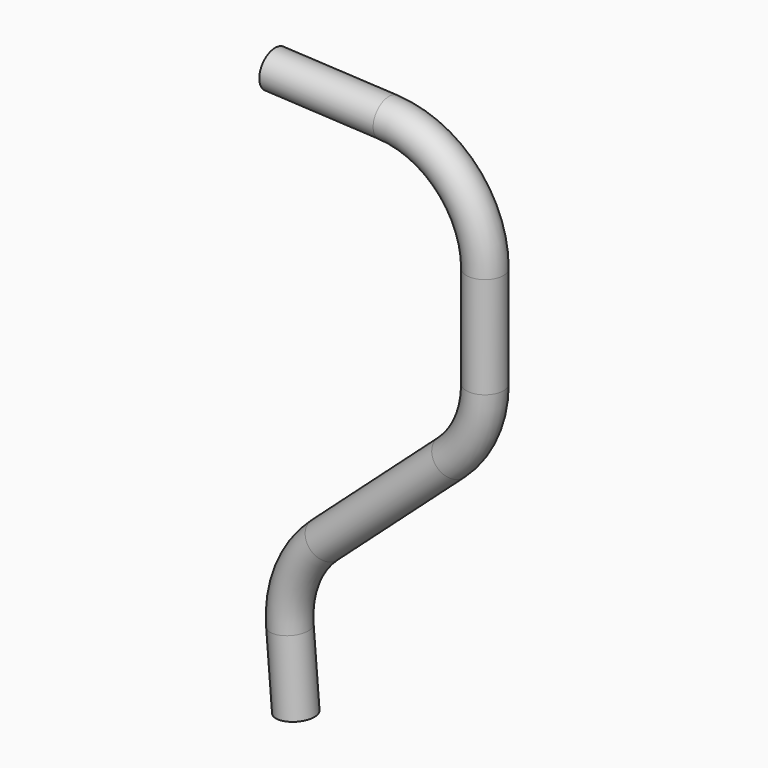
from build123d import *

# Parameters (mm, degrees)
F2_R = 5.3803837803


with BuildPart() as f3:
    # F3: sweep along a path in F0
    with BuildLine(Plane.XZ) as f3_path:
        Line((-26.7027262608, 95.4753458089), (6.2291059555, 93.8169066576))
        ThreePointArc((6.2291059555, 93.8169066576), (26.4603543194, 84.527727557), (34.7202252982, 63.8548760328))
        Line((34.7202252982, 63.8548760328), (34.7202252982, 34.5135206906))
        ThreePointArc((34.7202252982, 34.5135206906), (32.1206660255, 22.2981267981), (24.7725021017, 12.1997089365))
        Line((24.7725021017, 12.1997089365), (-11.8514567561, -20.7123622394))
        ThreePointArc((-11.8514567561, -20.7123622394), (-19.6627343532, -31.9076158063), (-21.7047156406, -45.4050256521))
        Line((-21.7047156406, -45.4050256521), (-20.0031081269, -66.7966429239))
    # F2 (on line) → F3 (sweep)
    with BuildSketch(Plane(origin=(5.1541917088, 0, -64.7954921983), x_dir=(0.9968511896, 0, 0.0792950553), z_dir=(0.0792950553, 0, -0.9968511896))):
        with Locations((-25.7112942636, 0)):
            Circle(F2_R)
    sweep(path=f3_path.line)


solid = f3.part
